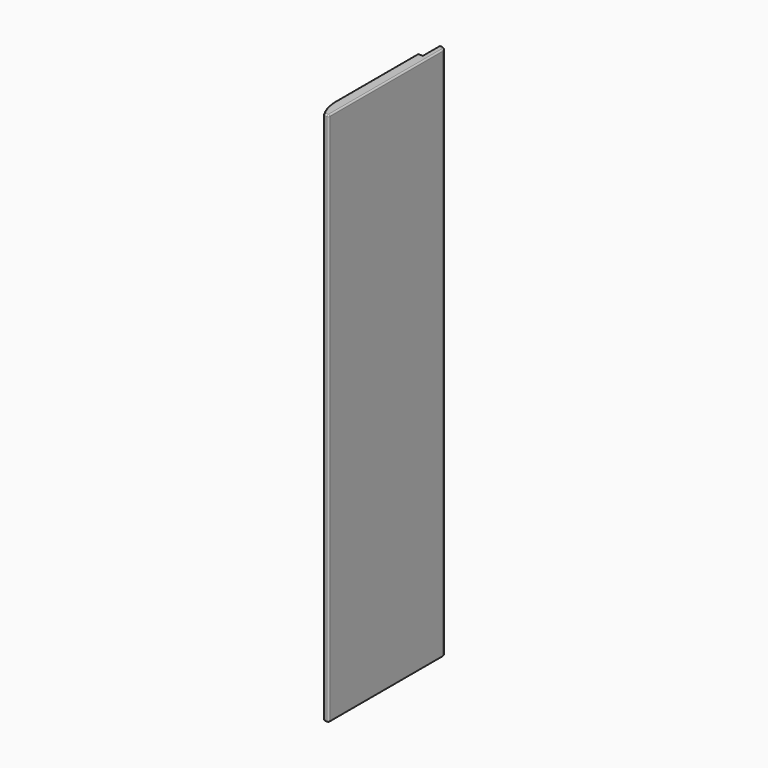
from build123d import *

# Parameters (mm, degrees)
F1_DEPTH = 2400
F2_R     = 6.5


with BuildPart() as f1:
    # F0 (on Top) → F1 (new body)
    with BuildSketch(Plane.XY):
        with BuildLine():
            Line((-20, 301.836108), (-25, 301.836108))
            Line((-25, 301.836108), (-25, 201.836108))
            Line((-25, 201.836108), (-50, 201.836108))
            Line((-50, 201.836108), (-50, -258.163892))
            ThreePointArc((-50, -258.163892), (-43.491581, -307.48237), (-24.411949, -353.424066))
            ThreePointArc((-24.411949, -353.424066), (-20.9355, -356.89407), (-16.19059, -358.163892))
            Line((-16.19059, -358.163892), (-6.5, -358.163892))
            ThreePointArc((-6.5, -358.163892), (-1.903806, -356.260086), (0, -351.663892))
            Line((0, -351.663892), (0, 281.836108))
            ThreePointArc((0, 281.836108), (-5.857864, 295.978244), (-20, 301.836108))
        make_face()
    extrude(amount=F1_DEPTH)

    # F2
    f2_edges = [f1.edges().sort_by_distance(p)[0] for p in [
        (-50, -28.163892, 2400),
        (-50, -28.163892, 0),
    ]]
    fillet(f2_edges, radius=F2_R)


solid = f1.part
